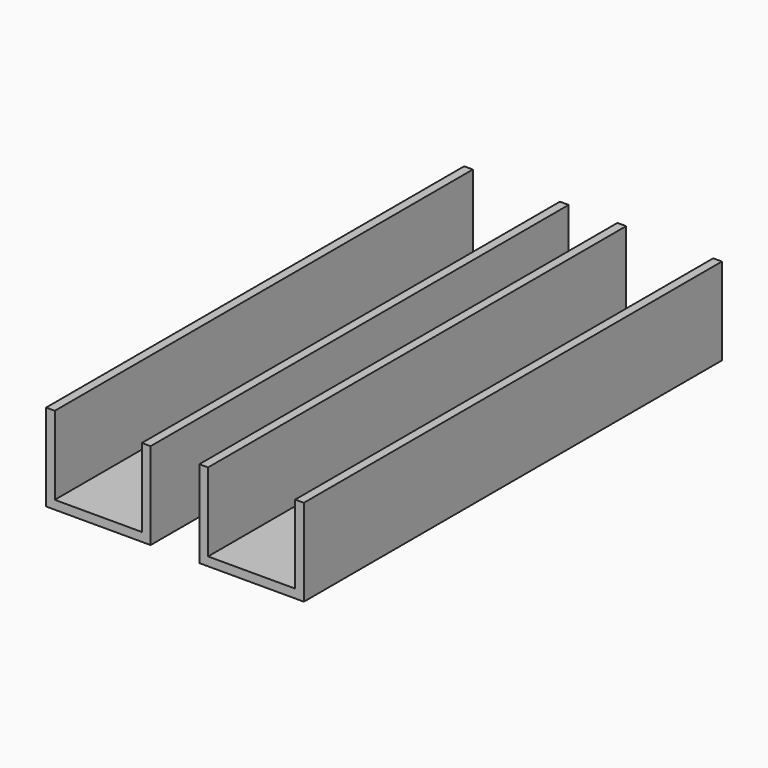
from build123d import *

# Parameters (mm, degrees)
F0_W     = 25.4
F0_H     = 152.4
F1_DEPTH = 2.54
F0_W_2   = 2.54
F2_DEPTH = 25.4


with BuildPart() as f1:
    # F0 (on Top) → F1 (new body)
    with BuildSketch(Plane.XY):
        with Locations((-24.525753, 40.315795)):
            Rectangle(F0_W, F0_H)
    extrude(amount=F1_DEPTH)

    # F0 (on Top) → F2 (join)
    with BuildSketch(Plane.XY):
        with Locations((-38.495753, 40.315795)):
            Rectangle(F0_W_2, F0_H)
        with Locations((-10.555753, 40.315795)):
            Rectangle(F0_W_2, F0_H)
    extrude(amount=F2_DEPTH)


with BuildPart() as f3_1:
    # F3: copy of F1
    add(f1.part.moved(Location((44.704, 0, 0))))


solid = Compound([f1.part, f3_1.part])
